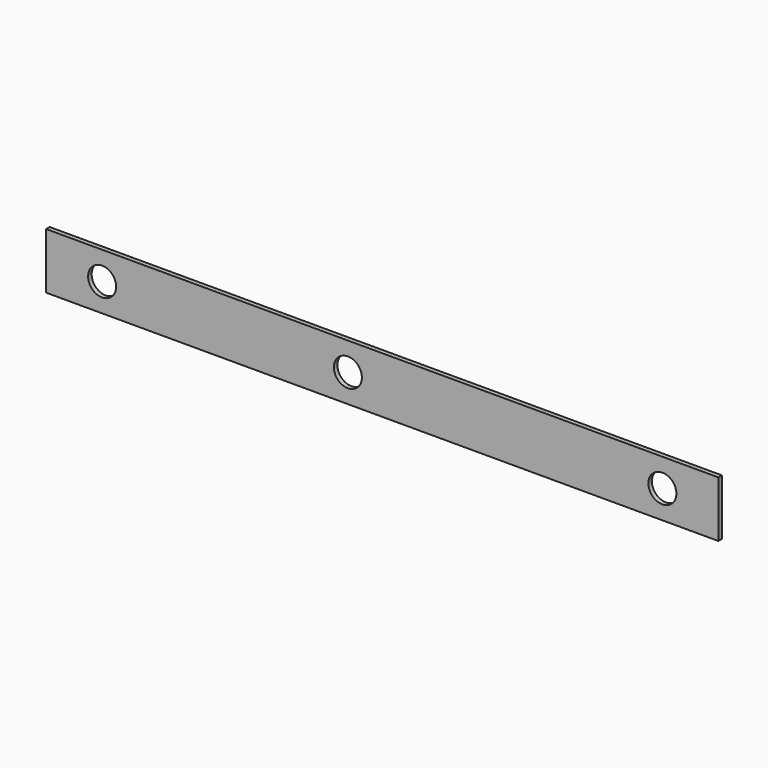
from build123d import *

# Parameters (mm, degrees)
F0_W     = 304.8
F0_H     = 25.4
F2_DEPTH = 2
F1_R     = 6.35
F3_DEPTH = 108
F4_R     = 6.35
F5_DEPTH = 25.4


with BuildPart() as f2:
    # F0 (on Front) → F2 (new body)
    with BuildSketch(Plane.XZ):
        with Locations((-193.59771, 10.958225)):
            Rectangle(F0_W, F0_H)
    extrude(amount=-F2_DEPTH)

    # F1 (on face) → F3 (cut)
    with BuildSketch(Plane.XZ):
        with Locations((-209.174946, 10.958225)):
            Circle(F1_R)
    extrude(amount=-F3_DEPTH, mode=Mode.SUBTRACT)

    # F4 (on face) → F5 (cut)
    with BuildSketch(Plane.XZ):
        with Locations((-320.59771, 10.958225)):
            Circle(F4_R)
        with Locations((-66.59771, 10.958225)):
            Circle(F4_R)
    extrude(amount=-F5_DEPTH, mode=Mode.SUBTRACT)


solid = f2.part
